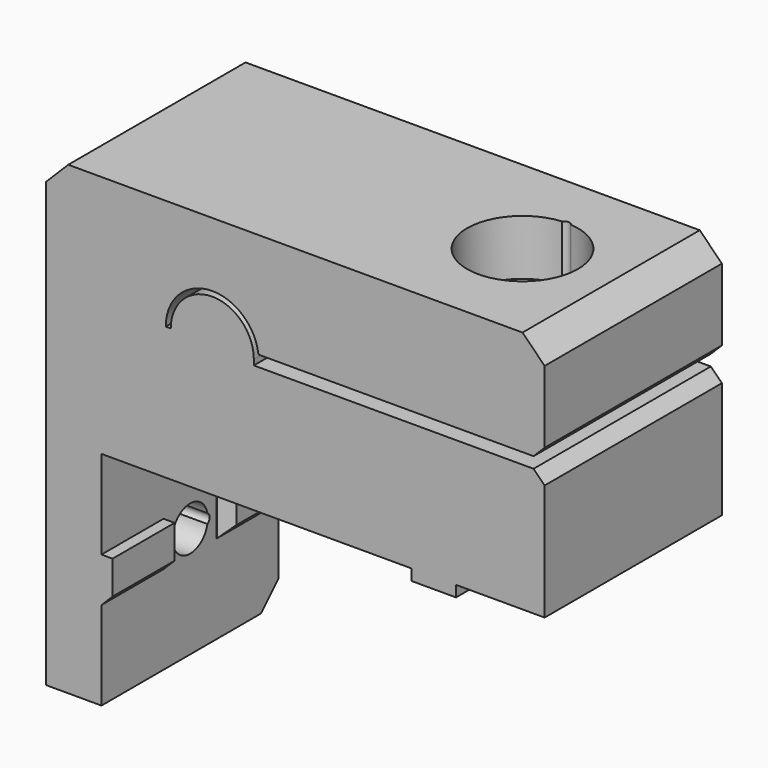
from build123d import *

# Parameters (mm, degrees)
BOX012_W          = 41
BOX012_H          = 6
BOX012_DEPTH      = 0.5
BOX015_W          = 41
BOX015_H          = 6
BOX015_DEPTH      = 0.5
BOX013_W          = 41
BOX013_H          = 6
BOX013_DEPTH      = 0.5
BOX010_W          = 41
BOX010_H          = 6
BOX010_DEPTH      = 0.5
BOX008_W          = 1
BOX008_H          = 7
BOX008_DEPTH      = 4
CHAMFER002_SIZE   = 0.99
BOX006_W          = 4
BOX006_H          = 7
BOX006_DEPTH      = 1
BOX007_W          = 4
BOX007_H          = 7
BOX007_DEPTH      = 1
CHAMFER_SIZE      = 0.99
BOX005_W          = 1
BOX005_H          = 7
BOX005_DEPTH      = 4
CHAMFER007_SIZE   = 0.99
CYLINDER007_R     = 0.5
CYLINDER007_DEPTH = 4
CYLINDER008_R     = 5
CYLINDER008_DEPTH = 4
CYLINDER009_R     = 2
CYLINDER009_DEPTH = 10
CYLINDER006_R     = 0.5
CYLINDER006_DEPTH = 10
CYLINDER002_R     = 2.1
CYLINDER002_DEPTH = 22
CYLINDER005_R     = 0.5
CYLINDER005_DEPTH = 10
CYLINDER004_R     = 0.5
CYLINDER004_DEPTH = 22
CYLINDER003_R     = 5
CYLINDER003_DEPTH = 10
BOX004_W          = 34
BOX004_H          = 20
BOX004_DEPTH      = 1
BOX009_W          = 10
BOX009_H          = 10
BOX009_DEPTH      = 10
CYLINDER011_R     = 3.75
CYLINDER011_DEPTH = 9.8
CYLINDER010_R     = 4.2
CYLINDER010_DEPTH = 9.8
CYLINDER001_R     = 4.15
CYLINDER001_DEPTH = 10.2
BOX001_W          = 40
BOX001_H          = 20
BOX001_DEPTH      = 22
BOX002_W          = 5
BOX002_H          = 20
BOX002_DEPTH      = 42
CHAMFER003_SIZE   = 1
CHAMFER004_SIZE   = 2
CHAMFER005_SIZE   = 2
CHAMFER006_SIZE   = 2


with BuildPart() as cube011:
    # Box012 → Box012 (new body)
    with BuildSketch(Plane(origin=(-3, 2, 26), x_dir=(1, 0, 0), z_dir=(0, 0, 1))):
        with Locations((20.5, 3)):
            Rectangle(BOX012_W, BOX012_H)
    extrude(amount=BOX012_DEPTH)


with BuildPart() as cube014:
    # Box015 → Box015 (new body)
    with BuildSketch(Plane(origin=(-3, 12, 26), x_dir=(1, 0, 0), z_dir=(0, 0, 1))):
        with Locations((20.5, 3)):
            Rectangle(BOX015_W, BOX015_H)
    extrude(amount=BOX015_DEPTH)


with BuildPart() as cube012:
    # Box013 → Box013 (new body)
    with BuildSketch(Plane(origin=(-3, 12, 22), x_dir=(1, 0, 0), z_dir=(0, 0, 1))):
        with Locations((20.5, 3)):
            Rectangle(BOX013_W, BOX013_H)
    extrude(amount=BOX013_DEPTH)


with BuildPart() as fusion006:
    # Box010 → Box010 (new body)
    with BuildSketch(Plane(origin=(-3, 2, 22), x_dir=(1, 0, 0), z_dir=(0, 0, 1))):
        with Locations((20.5, 3)):
            Rectangle(BOX010_W, BOX010_H)
    extrude(amount=BOX010_DEPTH)

    # Fusion006: union Cube011, Cube014, Cube012
    add(cube011.part)
    add(cube014.part)
    add(cube012.part)


with BuildPart() as chamfer002:
    # Box008 → Box008 (new body)
    with BuildSketch(Plane(origin=(0, 13, 8), x_dir=(1, 0, 0), z_dir=(0, 0, 1))):
        with Locations((0.5, 3.5)):
            Rectangle(BOX008_W, BOX008_H)
    extrude(amount=BOX008_DEPTH)

    # Chamfer002
    chamfer002_edges = [chamfer002.edges().sort_by_distance(p)[0] for p in [
        (1, 13, 10),
        (1, 16.5, 8),
    ]]
    chamfer(chamfer002_edges, length=CHAMFER002_SIZE)


with BuildPart() as cube005:
    # Box006 → Box006 (new body)
    with BuildSketch(Plane(origin=(28, 0, 19), x_dir=(1, 0, 0), z_dir=(0, 0, 1))):
        with Locations((2, 3.5)):
            Rectangle(BOX006_W, BOX006_H)
    extrude(amount=BOX006_DEPTH)


with BuildPart() as chamfer_body:
    # Box007 → Box007 (new body)
    with BuildSketch(Plane(origin=(28, 13, 19), x_dir=(1, 0, 0), z_dir=(0, 0, 1))):
        with Locations((2, 3.5)):
            Rectangle(BOX007_W, BOX007_H)
    extrude(amount=BOX007_DEPTH)

    # Chamfer
    chamfer_edges = [chamfer_body.edges().sort_by_distance(p)[0] for p in [
        (30, 13, 19),
    ]]
    chamfer(chamfer_edges, length=CHAMFER_SIZE)


with BuildPart() as fusion004:
    # Box005 → Box005 (new body)
    with BuildSketch(Plane.XY.offset(8)):
        with Locations((0.5, 3.5)):
            Rectangle(BOX005_W, BOX005_H)
    extrude(amount=BOX005_DEPTH)

    # Chamfer007
    chamfer007_edges = [fusion004.edges().sort_by_distance(p)[0] for p in [
        (1, 3.5, 8),
    ]]
    chamfer(chamfer007_edges, length=CHAMFER007_SIZE)

    # Fusion004: union Chamfer002, Cube005, Chamfer body
    add(chamfer002.part)
    add(cube005.part)
    add(chamfer_body.part)


with BuildPart() as cylinder005:
    # Cylinder007 → Cylinder007 (new body)
    with BuildSketch(Plane(origin=(-3, 14.7, 10), x_dir=(0, 0, 1), z_dir=(-1, 0, 0))):
        Circle(CYLINDER007_R)
    extrude(amount=CYLINDER007_DEPTH)


with BuildPart() as cylinder006:
    # Cylinder008 → Cylinder008 (new body)
    with BuildSketch(Plane(origin=(-3, 10, 10), x_dir=(0, 0, 1), z_dir=(-1, 0, 0))):
        Circle(CYLINDER008_R)
    extrude(amount=CYLINDER008_DEPTH)


with BuildPart() as cylinder007:
    # Cylinder009 → Cylinder009 (new body)
    with BuildSketch(Plane(origin=(3, 10, 10), x_dir=(0, 0, 1), z_dir=(-1, 0, 0))):
        Circle(CYLINDER009_R)
    extrude(amount=CYLINDER009_DEPTH)


with BuildPart() as fusion002:
    # Cylinder006 → Cylinder006 (new body)
    with BuildSketch(Plane(origin=(3, 11.7, 10), x_dir=(0, 0, 1), z_dir=(-1, 0, 0))):
        Circle(CYLINDER006_R)
    extrude(amount=CYLINDER006_DEPTH)

    # Fusion002: union Cylinder005, Cylinder006, Cylinder007
    add(cylinder005.part)
    add(cylinder006.part)
    add(cylinder007.part)


with BuildPart() as cylinder:
    # Cylinder002 → Cylinder002 (new body)
    with BuildSketch(Plane(origin=(30, 10, 20), x_dir=(1, 0, 0), z_dir=(0, 0, 1))):
        Circle(CYLINDER002_R)
    extrude(amount=CYLINDER002_DEPTH)


with BuildPart() as cylinder003:
    # Cylinder005 → Cylinder005 (new body)
    with BuildSketch(Plane(origin=(30, 14.7, 37), x_dir=(1, 0, 0), z_dir=(0, 0, 1))):
        Circle(CYLINDER005_R)
    extrude(amount=CYLINDER005_DEPTH)


with BuildPart() as cylinder002:
    # Cylinder004 → Cylinder004 (new body)
    with BuildSketch(Plane(origin=(30, 11.9, 20), x_dir=(1, 0, 0), z_dir=(0, 0, 1))):
        Circle(CYLINDER004_R)
    extrude(amount=CYLINDER004_DEPTH)


with BuildPart() as fusion003:
    # Cylinder003 → Cylinder003 (new body)
    with BuildSketch(Plane(origin=(30, 10, 37), x_dir=(1, 0, 0), z_dir=(0, 0, 1))):
        Circle(CYLINDER003_R)
    extrude(amount=CYLINDER003_DEPTH)

    # Fusion003: union Cylinder, Cylinder003, Cylinder002
    add(cylinder.part)
    add(cylinder003.part)
    add(cylinder002.part)


with BuildPart() as cube003:
    # Box004 → Box004 (new body)
    with BuildSketch(Plane(origin=(13.75, 0, 31.5), x_dir=(1, 0, 0), z_dir=(0, 0, 1))):
        with Locations((17, 10)):
            Rectangle(BOX004_W, BOX004_H)
    extrude(amount=BOX004_DEPTH)


with BuildPart() as cube008:
    # Box009 → Box009 (new body)
    with BuildSketch(Plane(origin=(5, 0, 22), x_dir=(1, 0, 0), z_dir=(0, 0, 1))):
        with Locations((5, 5)):
            Rectangle(BOX009_W, BOX009_H)
    extrude(amount=BOX009_DEPTH)


with BuildPart() as cylinder009:
    # Cylinder011 → Cylinder011 (new body)
    with BuildSketch(Plane(origin=(10, 0, 32), x_dir=(1, 0, 0), z_dir=(0, 1, 0))):
        Circle(CYLINDER011_R)
    extrude(amount=CYLINDER011_DEPTH)


with BuildPart() as cut001:
    # Cylinder010 → Cylinder010 (new body)
    with BuildSketch(Plane(origin=(10, 0, 32), x_dir=(1, 0, 0), z_dir=(0, 1, 0))):
        Circle(CYLINDER010_R)
    extrude(amount=CYLINDER010_DEPTH)

    # Cut: cut Cylinder009
    add(cylinder009.part, mode=Mode.SUBTRACT)

    # Cut001: cut Cube008
    add(cube008.part, mode=Mode.SUBTRACT)


with BuildPart() as slot:
    # Cylinder001 → Cylinder001 (new body)
    with BuildSketch(Plane(origin=(10, 9.8, 32), x_dir=(1, 0, 0), z_dir=(0, 1, 0))):
        Circle(CYLINDER001_R)
    extrude(amount=CYLINDER001_DEPTH)


with BuildPart() as cube:
    # Box001 → Box001 (new body)
    with BuildSketch(Plane.XY.offset(20)):
        with Locations((20, 10)):
            Rectangle(BOX001_W, BOX001_H)
    extrude(amount=BOX001_DEPTH)


with BuildPart() as cut007:
    # Box002 → Box002 (new body)
    with BuildSketch(Plane(origin=(-5, 0, 0), x_dir=(1, 0, 0), z_dir=(0, 0, 1))):
        with Locations((2.5, 10)):
            Rectangle(BOX002_W, BOX002_H)
    extrude(amount=BOX002_DEPTH)

    # Fusion: union Cube
    add(cube.part)

    # Cut002: cut slot
    add(slot.part, mode=Mode.SUBTRACT)

    # Cut003: cut Cut001
    add(cut001.part, mode=Mode.SUBTRACT)

    # Cut004: cut Cube003
    add(cube003.part, mode=Mode.SUBTRACT)

    # Cut005: cut Fusion003
    add(fusion003.part, mode=Mode.SUBTRACT)

    # Cut006: cut Fusion002
    add(fusion002.part, mode=Mode.SUBTRACT)

    # Chamfer003
    chamfer003_edges = [cut007.edges().sort_by_distance(p)[0] for p in [
        (40, 10, 31.5),
        (40, 10, 32.5),
    ]]
    chamfer(chamfer003_edges, length=CHAMFER003_SIZE)

    # Chamfer004
    chamfer004_edges = [cut007.edges().sort_by_distance(p)[0] for p in [
        (40, 10, 42),
    ]]
    chamfer(chamfer004_edges, length=CHAMFER004_SIZE)

    # Chamfer005
    chamfer005_edges = [cut007.edges().sort_by_distance(p)[0] for p in [
        (-5, 10, 42),
    ]]
    chamfer(chamfer005_edges, length=CHAMFER005_SIZE)

    # Chamfer006
    chamfer006_edges = [cut007.edges().sort_by_distance(p)[0] for p in [
        (-2.5, 20, 0),
    ]]
    chamfer(chamfer006_edges, length=CHAMFER006_SIZE)

    # Fusion005: union Fusion004
    add(fusion004.part)

    # Cut007: cut Fusion006
    add(fusion006.part, mode=Mode.SUBTRACT)


solid = cut007.part
